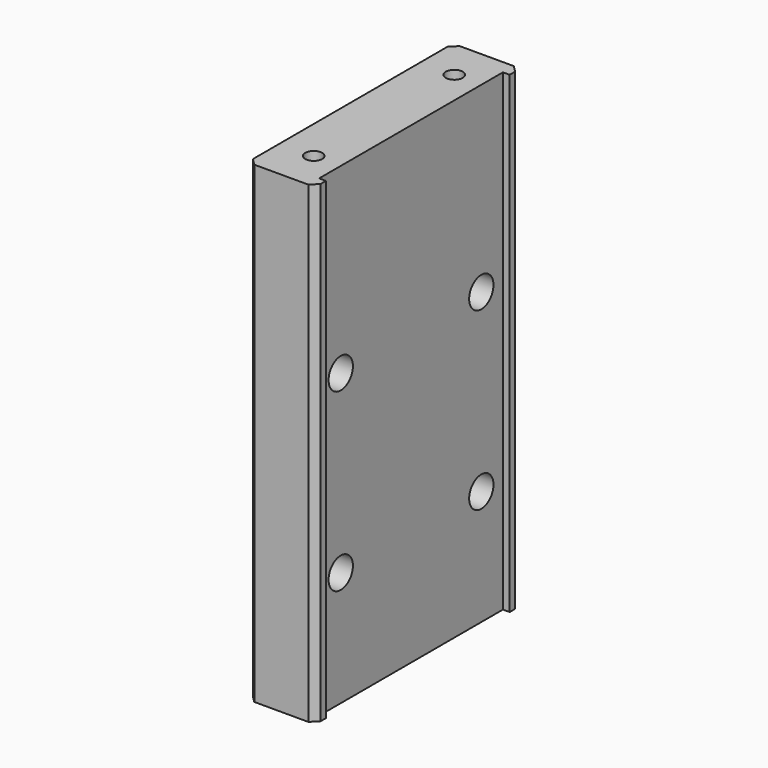
from build123d import *

# Parameters (mm, degrees)
F1_DEPTH       = 35
F2_SIZE        = 1
F4_D           = 2.5
F4_DEPTH       = 8
F4_TIP         = 0.7510757738
F6_D           = 4.5
F6_CBORE_D     = 8
F6_CBORE_DEPTH = 5
F8_D           = 3.3
F8_DEPTH       = 12
F8_TIP         = 0.9914200214


with BuildPart() as f1:
    # F0 (on Top) → F1 (new body, symmetric)
    with BuildSketch(Plane.XY):
        Polygon((4, 17), (5, 17), (5, 19), (-5, 19), (-5, -19), (5, -19), (5, -17), (4, -17), (4, 0), align=None)
    extrude(amount=F1_DEPTH, both=True)

    # F2
    f2_edges = [f1.edges().sort_by_distance(p)[0] for p in [
        (-5, 19, 0),
        (5, 19, 0),
        (-5, -19, 0),
        (5, -19, 0),
    ]]
    chamfer(f2_edges, length=F2_SIZE)

    # F4
    with Locations(Plane.XY.offset(35)):
        with Locations((0, 13), (0, -13)):
            Hole(F4_D / 2, depth=F4_DEPTH)
            with Locations((0, 0, -(F4_DEPTH + F4_TIP / 2))):  # 118° drill point
                Cone(0, F4_D / 2, F4_TIP, mode=Mode.SUBTRACT)

    # F6 (through all)
    with Locations(Plane(origin=(-5, 0, 0), x_dir=(0, -1, 0), z_dir=(-1, 0, 0))):
        with Locations((-13, 8), (13, 8), (13, -18), (-13, -18)):
            CounterBoreHole(F6_D / 2, F6_CBORE_D / 2, F6_CBORE_DEPTH)

    # F8
    with Locations(Plane(origin=(0, 0, -35), x_dir=(1, 0, 0), z_dir=(0, 0, -1))):
        with Locations((0, 13), (0, 0), (0, -13)):
            Hole(F8_D / 2, depth=F8_DEPTH)
            with Locations((0, 0, -(F8_DEPTH + F8_TIP / 2))):  # 118° drill point
                Cone(0, F8_D / 2, F8_TIP, mode=Mode.SUBTRACT)


solid = f1.part
